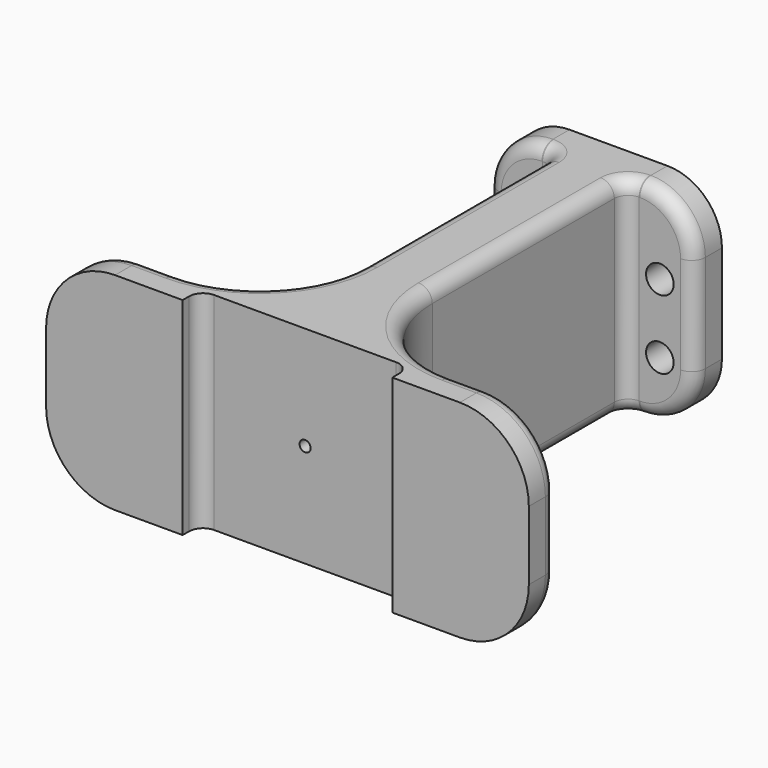
from build123d import *

# Parameters (mm, degrees)
PAD005_DEPTH    = 30
SKETCH014_R     = 2
POCKET016_DEPTH = 5
FILLET001_R     = 2
FILLET002_R     = 15
FILLET003_R     = 7.9
FILLET004_R     = 10
FILLET005_R     = 2
SKETCH015_W     = 30.4
SKETCH015_H     = 30
POCKET017_DEPTH = 3.2
FILLET006_R     = 2
SKETCH020_R     = 0.8
POCKET021_DEPTH = 3


with BuildPart() as part:
    # Sketch013 → Pad005 (new body)
    with BuildSketch(Plane.XY):
        Polygon((-15, 30), (15, 30), (15, 25), (5, 25), (5, -25), (35, -25), (35, -30), (-35, -30), (-35, -25), (-5, -25), (-5, 25), (-15, 25), align=None)
    extrude(amount=PAD005_DEPTH)

    # Sketch014 (on Face11 of Pad005) → Pocket016 (cut)
    with BuildSketch(Plane(origin=(0, 25, 0), x_dir=(1, 0, 0), z_dir=(0, -1, 0))):
        with Locations((-10, 18.5)):
            Circle(SKETCH014_R)
        with Locations((10, 18.5)):
            Circle(SKETCH014_R)
        with Locations((10, 8.5)):
            Circle(SKETCH014_R)
        with Locations((-10, 8.5)):
            Circle(SKETCH014_R)
    extrude(amount=-POCKET016_DEPTH, mode=Mode.SUBTRACT)

    # Fillet001
    fillet001_edges = [part.edges().sort_by_distance(p)[0] for p in [
        (-5, 25, 15),
        (5, 25, 15),
    ]]
    fillet(fillet001_edges, radius=FILLET001_R)

    # Fillet002
    fillet002_edges = [part.edges().sort_by_distance(p)[0] for p in [
        (5, -25, 15),
        (-5, -25, 15),
    ]]
    fillet(fillet002_edges, radius=FILLET002_R)

    # Fillet003
    fillet003_edges = [part.edges().sort_by_distance(p)[0] for p in [
        (15, 27.5, 30),
        (15, 27.5, 0),
        (-15, 27.5, 30),
        (-15, 27.5, 0),
    ]]
    fillet(fillet003_edges, radius=FILLET003_R)

    # Fillet004
    fillet004_edges = [part.edges().sort_by_distance(p)[0] for p in [
        (-35, -27.5, 30),
        (-35, -27.5, 0),
        (35, -27.5, 30),
        (35, -27.5, 0),
    ]]
    fillet(fillet004_edges, radius=FILLET004_R)

    # Fillet005
    fillet005_edges = [part.edges().sort_by_distance(p)[0] for p in [
        (5, 6.5, 30),
        (-5, 6.5, 30),
    ]]
    fillet(fillet005_edges, radius=FILLET005_R)

    # Sketch015 (on Face4 of Fillet005) → Pocket017 (cut)
    with BuildSketch(Plane(origin=(0, -30, 0), x_dir=(1, 0, 0), z_dir=(0, -1, 0))):
        with Locations((0, 15)):
            Rectangle(SKETCH015_W, SKETCH015_H)
    extrude(amount=-POCKET017_DEPTH, mode=Mode.SUBTRACT)

    # Fillet006
    fillet006_edges = [part.edges().sort_by_distance(p)[0] for p in [
        (15.2, -26.8, 15),
        (-15.2, -26.8, 15),
    ]]
    fillet(fillet006_edges, radius=FILLET006_R)

    # Sketch020 (on Face5 of Fillet006) → Pocket021 (cut)
    with BuildSketch(Plane(origin=(0, -26.8, 0), x_dir=(1, 0, 0), z_dir=(0, -1, 0))):
        with Locations((0, 15)):
            Circle(SKETCH020_R)
    extrude(amount=-POCKET021_DEPTH, mode=Mode.SUBTRACT)


with BuildPart() as part_1:
    # Body002 placement: moved
    add(part.part.moved(Location((-0.28, -65.8, -23.42))))


solid = part_1.part
